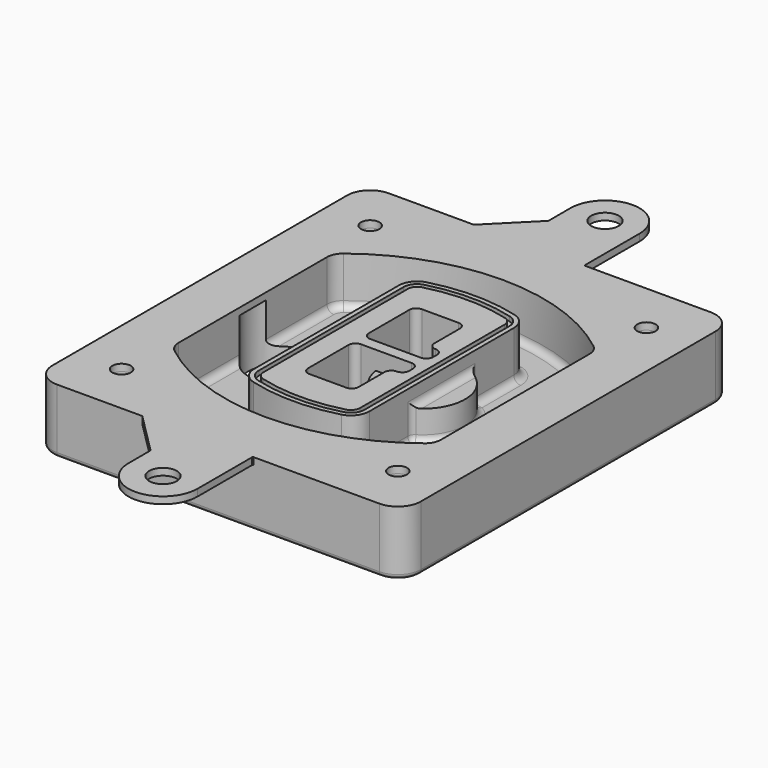
from build123d import *

# Parameters (mm, degrees)
F0_R      = 4
F1_DEPTH  = 25
F2_DEPTH  = 3
F3_DEPTH  = 18
F5_DEPTH  = 21
F6_DEPTH  = 2
F8_DEPTH  = 20
F9_DEPTH  = 16
F10_DEPTH = 25
F7_R      = 6
F7_R_2    = 4
F11_DEPTH = 6
F13_DEPTH = 9
F14_R     = 3
F15_R     = 2
F16_R     = 6
F16_R_2   = 4
F17_DEPTH = 3


with BuildPart() as f1:
    # F0 (on Top) → F1 (new body)
    with BuildSketch(Plane.XY):
        with BuildLine():
            ThreePointArc((-80, -80), (-77.0710678119, -87.0710678119), (-70, -90))
            Line((-70, -90), (70, -90))
            ThreePointArc((70, -90), (77.0710678119, -87.0710678119), (80, -80))
            Line((80, -80), (80, 80))
            ThreePointArc((80, 80), (77.0710678119, 87.0710678119), (70, 90))
            Line((70, 90), (-70, 90))
            ThreePointArc((-70, 90), (-77.0710678119, 87.0710678119), (-80, 80))
            Line((-80, 80), (-80, -80))
        make_face()
        with Locations((-60, -67.5)):
            Circle(F0_R, mode=Mode.SUBTRACT)
        with Locations((60, -67.5)):
            Circle(F0_R, mode=Mode.SUBTRACT)
        with Locations((-60, 67.5)):
            Circle(F0_R, mode=Mode.SUBTRACT)
        with BuildLine():
            ThreePointArc((-64, 40.2934422872), (-62.5820384798, 46.4328484224), (-58.6153846154, 51.3286200352))
            ThreePointArc((-58.6153846154, 51.3286200352), (0, 71.5), (58.6153846154, 51.3286200352))
            ThreePointArc((58.6153846154, 51.3286200352), (62.5820384798, 46.4328484224), (64, 40.2934422872))
            Line((64, 40.2934422872), (64, -40.2934422872))
            ThreePointArc((64, -40.2934422872), (62.5820384798, -46.4328484224), (58.6153846154, -51.3286200352))
            ThreePointArc((58.6153846154, -51.3286200352), (0, -71.5), (-58.6153846154, -51.3286200352))
            ThreePointArc((-58.6153846154, -51.3286200352), (-62.5820384798, -46.4328484224), (-64, -40.2934422872))
            Line((-64, -40.2934422872), (-64, 40.2934422872))
        make_face(mode=Mode.SUBTRACT)
        with Locations((60, 67.5)):
            Circle(F0_R, mode=Mode.SUBTRACT)
        with BuildLine():
            ThreePointArc((58.6153846154, 51.3286200352), (0, 71.5), (-58.6153846154, 51.3286200352))
            ThreePointArc((-58.6153846154, 51.3286200352), (-62.5820384798, 46.4328484224), (-64, 40.2934422872))
            Line((-64, 40.2934422872), (-64, -40.2934422872))
            ThreePointArc((-64, -40.2934422872), (-62.5820384798, -46.4328484224), (-58.6153846154, -51.3286200352))
            ThreePointArc((-58.6153846154, -51.3286200352), (0, -71.5), (58.6153846154, -51.3286200352))
            ThreePointArc((58.6153846154, -51.3286200352), (62.5820384798, -46.4328484224), (64, -40.2934422872))
            Line((64, -40.2934422872), (64, 40.2934422872))
            ThreePointArc((64, 40.2934422872), (62.5820384798, 46.4328484224), (58.6153846154, 51.3286200352))
        make_face()
        with BuildLine():
            Line((-60, -40.2934422872), (-60, 40.2934422872))
            ThreePointArc((-60, 40.2934422872), (-58.9871703427, 44.6787323838), (-56.1538461538, 48.1757121072))
            ThreePointArc((-56.1538461538, 48.1757121072), (0, 67.5), (56.1538461538, 48.1757121072))
            ThreePointArc((56.1538461538, 48.1757121072), (58.9871703427, 44.6787323838), (60, 40.2934422872))
            Line((60, 40.2934422872), (60, -40.2934422872))
            ThreePointArc((60, -40.2934422872), (58.9871703427, -44.6787323838), (56.1538461538, -48.1757121072))
            ThreePointArc((56.1538461538, -48.1757121072), (0, -67.5), (-56.1538461538, -48.1757121072))
            ThreePointArc((-56.1538461538, -48.1757121072), (-58.9871703427, -44.6787323838), (-60, -40.2934422872))
        make_face(mode=Mode.SUBTRACT)
        with BuildLine():
            ThreePointArc((-56.1538461538, 48.1757121072), (-58.9871703427, 44.6787323838), (-60, 40.2934422872))
            Line((-60, 40.2934422872), (-60, -40.2934422872))
            ThreePointArc((-60, -40.2934422872), (-58.9871703427, -44.6787323838), (-56.1538461538, -48.1757121072))
            ThreePointArc((-56.1538461538, -48.1757121072), (0, -67.5), (56.1538461538, -48.1757121072))
            ThreePointArc((56.1538461538, -48.1757121072), (58.9871703427, -44.6787323838), (60, -40.2934422872))
            Line((60, -40.2934422872), (60, 40.2934422872))
            ThreePointArc((60, 40.2934422872), (58.9871703427, 44.6787323838), (56.1538461538, 48.1757121072))
            ThreePointArc((56.1538461538, 48.1757121072), (0, 67.5), (-56.1538461538, 48.1757121072))
        make_face()
        with BuildLine():
            ThreePointArc((54.3076923077, 45.8110311612), (56.2910192399, 43.3631453548), (57, 40.2934422872))
            Line((57, 40.2934422872), (57, -40.2934422872))
            ThreePointArc((57, -40.2934422872), (56.2910192399, -43.3631453548), (54.3076923077, -45.8110311612))
            ThreePointArc((54.3076923077, -45.8110311612), (0, -64.5), (-54.3076923077, -45.8110311612))
            ThreePointArc((-54.3076923077, -45.8110311612), (-56.2910192399, -43.3631453548), (-57, -40.2934422872))
            Line((-57, -40.2934422872), (-57, 40.2934422872))
            ThreePointArc((-57, 40.2934422872), (-56.2910192399, 43.3631453548), (-54.3076923077, 45.8110311612))
            ThreePointArc((-54.3076923077, 45.8110311612), (0, 64.5), (54.3076923077, 45.8110311612))
        make_face(mode=Mode.SUBTRACT)
        with BuildLine():
            Line((57, -40.2934422872), (57, 40.2934422872))
            ThreePointArc((57, 40.2934422872), (56.2910192399, 43.3631453548), (54.3076923077, 45.8110311612))
            ThreePointArc((54.3076923077, 45.8110311612), (0, 64.5), (-54.3076923077, 45.8110311612))
            ThreePointArc((-54.3076923077, 45.8110311612), (-56.2910192399, 43.3631453548), (-57, 40.2934422872))
            Line((-57, 40.2934422872), (-57, -40.2934422872))
            ThreePointArc((-57, -40.2934422872), (-56.2910192399, -43.3631453548), (-54.3076923077, -45.8110311612))
            ThreePointArc((-54.3076923077, -45.8110311612), (0, -64.5), (54.3076923077, -45.8110311612))
            ThreePointArc((54.3076923077, -45.8110311612), (56.2910192399, -43.3631453548), (57, -40.2934422872))
        make_face()
    extrude(amount=-F1_DEPTH)

    # F0 (on Top) → F2 (join)
    with BuildSketch(Plane.XY):
        with BuildLine():
            ThreePointArc((-56.1538461538, 48.1757121072), (-58.9871703427, 44.6787323838), (-60, 40.2934422872))
            Line((-60, 40.2934422872), (-60, -40.2934422872))
            ThreePointArc((-60, -40.2934422872), (-58.9871703427, -44.6787323838), (-56.1538461538, -48.1757121072))
            ThreePointArc((-56.1538461538, -48.1757121072), (0, -67.5), (56.1538461538, -48.1757121072))
            ThreePointArc((56.1538461538, -48.1757121072), (58.9871703427, -44.6787323838), (60, -40.2934422872))
            Line((60, -40.2934422872), (60, 40.2934422872))
            ThreePointArc((60, 40.2934422872), (58.9871703427, 44.6787323838), (56.1538461538, 48.1757121072))
            ThreePointArc((56.1538461538, 48.1757121072), (0, 67.5), (-56.1538461538, 48.1757121072))
        make_face()
        with BuildLine():
            ThreePointArc((54.3076923077, 45.8110311612), (56.2910192399, 43.3631453548), (57, 40.2934422872))
            Line((57, 40.2934422872), (57, -40.2934422872))
            ThreePointArc((57, -40.2934422872), (56.2910192399, -43.3631453548), (54.3076923077, -45.8110311612))
            ThreePointArc((54.3076923077, -45.8110311612), (0, -64.5), (-54.3076923077, -45.8110311612))
            ThreePointArc((-54.3076923077, -45.8110311612), (-56.2910192399, -43.3631453548), (-57, -40.2934422872))
            Line((-57, -40.2934422872), (-57, 40.2934422872))
            ThreePointArc((-57, 40.2934422872), (-56.2910192399, 43.3631453548), (-54.3076923077, 45.8110311612))
            ThreePointArc((-54.3076923077, 45.8110311612), (0, 64.5), (54.3076923077, 45.8110311612))
        make_face(mode=Mode.SUBTRACT)
    extrude(amount=F2_DEPTH)

    # F0 (on Top) → F3 (cut)
    with BuildSketch(Plane.XY):
        with BuildLine():
            Line((57, -40.2934422872), (57, 40.2934422872))
            ThreePointArc((57, 40.2934422872), (56.2910192399, 43.3631453548), (54.3076923077, 45.8110311612))
            ThreePointArc((54.3076923077, 45.8110311612), (0, 64.5), (-54.3076923077, 45.8110311612))
            ThreePointArc((-54.3076923077, 45.8110311612), (-56.2910192399, 43.3631453548), (-57, 40.2934422872))
            Line((-57, 40.2934422872), (-57, -40.2934422872))
            ThreePointArc((-57, -40.2934422872), (-56.2910192399, -43.3631453548), (-54.3076923077, -45.8110311612))
            ThreePointArc((-54.3076923077, -45.8110311612), (0, -64.5), (54.3076923077, -45.8110311612))
            ThreePointArc((54.3076923077, -45.8110311612), (56.2910192399, -43.3631453548), (57, -40.2934422872))
        make_face()
    extrude(amount=-F3_DEPTH, mode=Mode.SUBTRACT)

    # F4 (on face) → F5 (join, through all)
    with BuildSketch(Plane.XY.offset(3)):
        with BuildLine():
            ThreePointArc((-25, -39.2465276821), (-23.3511545998, -44.1109737193), (-19.0842911877, -46.9702398883))
            ThreePointArc((-19.0842911877, -46.9702398883), (0, -49.5), (19.0842911877, -46.9702398883))
            ThreePointArc((19.0842911877, -46.9702398883), (23.3511545998, -44.1109737193), (25, -39.2465276821))
            Line((25, -39.2465276821), (25, 39.2465276821))
            ThreePointArc((25, 39.2465276821), (23.3511545998, 44.1109737193), (19.0842911877, 46.9702398883))
            ThreePointArc((19.0842911877, 46.9702398883), (0, 49.5), (-19.0842911877, 46.9702398883))
            ThreePointArc((-19.0842911877, 46.9702398883), (-23.3511545998, 44.1109737193), (-25, 39.2465276821))
            Line((-25, 39.2465276821), (-25, -39.2465276821))
        make_face()
        with BuildLine():
            ThreePointArc((18.5632183908, 45.0393118368), (21.7633659499, 42.89486221), (23, 39.2465276821))
            Line((23, 39.2465276821), (23, -39.2465276821))
            ThreePointArc((23, -39.2465276821), (21.7633659499, -42.89486221), (18.5632183908, -45.0393118368))
            ThreePointArc((18.5632183908, -45.0393118368), (0, -47.5), (-18.5632183908, -45.0393118368))
            ThreePointArc((-18.5632183908, -45.0393118368), (-21.7633659499, -42.89486221), (-23, -39.2465276821))
            Line((-23, -39.2465276821), (-23, 39.2465276821))
            ThreePointArc((-23, 39.2465276821), (-21.7633659499, 42.89486221), (-18.5632183908, 45.0393118368))
            ThreePointArc((-18.5632183908, 45.0393118368), (0, 47.5), (18.5632183908, 45.0393118368))
        make_face(mode=Mode.SUBTRACT)
        with BuildLine():
            Line((23, -39.2465276821), (23, 39.2465276821))
            ThreePointArc((23, 39.2465276821), (21.7633659499, 42.89486221), (18.5632183908, 45.0393118368))
            ThreePointArc((18.5632183908, 45.0393118368), (0, 47.5), (-18.5632183908, 45.0393118368))
            ThreePointArc((-18.5632183908, 45.0393118368), (-21.7633659499, 42.89486221), (-23, 39.2465276821))
            Line((-23, 39.2465276821), (-23, -39.2465276821))
            ThreePointArc((-23, -39.2465276821), (-21.7633659499, -42.89486221), (-18.5632183908, -45.0393118368))
            ThreePointArc((-18.5632183908, -45.0393118368), (0, -47.5), (18.5632183908, -45.0393118368))
            ThreePointArc((18.5632183908, -45.0393118368), (21.7633659499, -42.89486221), (23, -39.2465276821))
        make_face()
        with BuildLine():
            ThreePointArc((18.0421455939, 43.1083837852), (20.1755772999, 41.6787507007), (21, 39.2465276821))
            Line((21, 39.2465276821), (21, -39.2465276821))
            ThreePointArc((21, -39.2465276821), (20.1755772999, -41.6787507007), (18.0421455939, -43.1083837852))
            ThreePointArc((18.0421455939, -43.1083837852), (0, -45.5), (-18.0421455939, -43.1083837852))
            ThreePointArc((-18.0421455939, -43.1083837852), (-20.1755772999, -41.6787507007), (-21, -39.2465276821))
            Line((-21, -39.2465276821), (-21, 39.2465276821))
            ThreePointArc((-21, 39.2465276821), (-20.1755772999, 41.6787507007), (-18.0421455939, 43.1083837852))
            ThreePointArc((-18.0421455939, 43.1083837852), (0, 45.5), (18.0421455939, 43.1083837852))
        make_face(mode=Mode.SUBTRACT)
        with BuildLine():
            Line((21, -39.2465276821), (21, 39.2465276821))
            ThreePointArc((21, 39.2465276821), (20.1755772999, 41.6787507007), (18.0421455939, 43.1083837852))
            ThreePointArc((18.0421455939, 43.1083837852), (0, 45.5), (-18.0421455939, 43.1083837852))
            ThreePointArc((-18.0421455939, 43.1083837852), (-20.1755772999, 41.6787507007), (-21, 39.2465276821))
            Line((-21, 39.2465276821), (-21, -39.2465276821))
            ThreePointArc((-21, -39.2465276821), (-20.1755772999, -41.6787507007), (-18.0421455939, -43.1083837852))
            ThreePointArc((-18.0421455939, -43.1083837852), (0, -45.5), (18.0421455939, -43.1083837852))
            ThreePointArc((18.0421455939, -43.1083837852), (20.1755772999, -41.6787507007), (21, -39.2465276821))
        make_face()
        with BuildLine():
            Line((-8, -2.5), (14, -2.5))
            ThreePointArc((14, -2.5), (16.1213203436, -3.3786796564), (17, -5.5))
            Line((17, -5.5), (17, -7.5))
            ThreePointArc((17, -7.5), (16.1213203436, -9.6213203436), (14, -10.5))
            ThreePointArc((14, -10.5), (11.8786796564, -11.3786796564), (11, -13.5))
            Line((11, -13.5), (11, -27.5))
            ThreePointArc((11, -27.5), (10.1213203436, -29.6213203436), (8, -30.5))
            Line((8, -30.5), (-8, -30.5))
            ThreePointArc((-8, -30.5), (-10.1213203436, -29.6213203436), (-11, -27.5))
            Line((-11, -27.5), (-11, -5.5))
            ThreePointArc((-11, -5.5), (-10.1213203436, -3.3786796564), (-8, -2.5))
        make_face(mode=Mode.SUBTRACT)
        with BuildLine():
            ThreePointArc((-8, 2.5), (-10.1213203436, 3.3786796564), (-11, 5.5))
            Line((-11, 5.5), (-11, 27.5))
            ThreePointArc((-11, 27.5), (-10.1213203436, 29.6213203436), (-8, 30.5))
            Line((-8, 30.5), (8, 30.5))
            ThreePointArc((8, 30.5), (10.1213203436, 29.6213203436), (11, 27.5))
            Line((11, 27.5), (11, 13.5))
            ThreePointArc((11, 13.5), (11.8786796564, 11.3786796564), (14, 10.5))
            ThreePointArc((14, 10.5), (16.1213203436, 9.6213203436), (17, 7.5))
            Line((17, 7.5), (17, 5.5))
            ThreePointArc((17, 5.5), (16.1213203436, 3.3786796564), (14, 2.5))
            Line((14, 2.5), (-8, 2.5))
        make_face(mode=Mode.SUBTRACT)
    extrude(amount=-F5_DEPTH)

    # F4 (on face) → F6 (cut)
    with BuildSketch(Plane.XY.offset(3)):
        with BuildLine():
            Line((23, -39.2465276821), (23, 39.2465276821))
            ThreePointArc((23, 39.2465276821), (21.7633659499, 42.89486221), (18.5632183908, 45.0393118368))
            ThreePointArc((18.5632183908, 45.0393118368), (0, 47.5), (-18.5632183908, 45.0393118368))
            ThreePointArc((-18.5632183908, 45.0393118368), (-21.7633659499, 42.89486221), (-23, 39.2465276821))
            Line((-23, 39.2465276821), (-23, -39.2465276821))
            ThreePointArc((-23, -39.2465276821), (-21.7633659499, -42.89486221), (-18.5632183908, -45.0393118368))
            ThreePointArc((-18.5632183908, -45.0393118368), (0, -47.5), (18.5632183908, -45.0393118368))
            ThreePointArc((18.5632183908, -45.0393118368), (21.7633659499, -42.89486221), (23, -39.2465276821))
        make_face()
        with BuildLine():
            ThreePointArc((18.0421455939, 43.1083837852), (20.1755772999, 41.6787507007), (21, 39.2465276821))
            Line((21, 39.2465276821), (21, -39.2465276821))
            ThreePointArc((21, -39.2465276821), (20.1755772999, -41.6787507007), (18.0421455939, -43.1083837852))
            ThreePointArc((18.0421455939, -43.1083837852), (0, -45.5), (-18.0421455939, -43.1083837852))
            ThreePointArc((-18.0421455939, -43.1083837852), (-20.1755772999, -41.6787507007), (-21, -39.2465276821))
            Line((-21, -39.2465276821), (-21, 39.2465276821))
            ThreePointArc((-21, 39.2465276821), (-20.1755772999, 41.6787507007), (-18.0421455939, 43.1083837852))
            ThreePointArc((-18.0421455939, 43.1083837852), (0, 45.5), (18.0421455939, 43.1083837852))
        make_face(mode=Mode.SUBTRACT)
    extrude(amount=-F6_DEPTH, mode=Mode.SUBTRACT)

    # F7 (on face) → F8 (join)
    with BuildSketch(Plane(origin=(0, 0, -25), x_dir=(1, 0, 0), z_dir=(0, 0, -1))):
        with BuildLine():
            ThreePointArc((3.28842436, 0), (16.7567035675, 13.4682792075), (30.224982775, 0))
            Line((30.224982775, 0), (35.224982775, 0))
            ThreePointArc((35.224982775, 0), (16.7567035675, 18.4682792075), (-1.71157564, 0))
            Line((-1.71157564, 0), (3.28842436, 0))
        make_face()
        with BuildLine():
            Line((3.28842436, 0), (30.224982775, 0))
            ThreePointArc((30.224982775, 0), (16.7567035675, 13.4682792075), (3.28842436, 0))
        make_face()
        with BuildLine():
            ThreePointArc((3.28842436, 0), (16.7567035675, -13.4682792075), (30.224982775, 0))
            Line((30.224982775, 0), (3.28842436, 0))
        make_face()
        with BuildLine():
            Line((35.224982775, 0), (30.224982775, 0))
            ThreePointArc((30.224982775, 0), (16.7567035675, -13.4682792075), (3.28842436, 0))
            Line((3.28842436, 0), (-1.71157564, 0))
            ThreePointArc((-1.71157564, 0), (16.7567035675, -18.4682792075), (35.224982775, 0))
        make_face()
    extrude(amount=-F8_DEPTH)

    # F7 (on face) → F9 (cut)
    with BuildSketch(Plane(origin=(0, 0, -25), x_dir=(1, 0, 0), z_dir=(0, 0, -1))):
        with BuildLine():
            Line((3.28842436, 0), (30.224982775, 0))
            ThreePointArc((30.224982775, 0), (16.7567035675, 13.4682792075), (3.28842436, 0))
        make_face()
        with BuildLine():
            ThreePointArc((3.28842436, 0), (16.7567035675, -13.4682792075), (30.224982775, 0))
            Line((30.224982775, 0), (3.28842436, 0))
        make_face()
    extrude(amount=-F9_DEPTH, mode=Mode.SUBTRACT)

    # F7 (on face) → F10 (cut)
    with BuildSketch(Plane(origin=(0, 0, -25), x_dir=(1, 0, 0), z_dir=(0, 0, -1))):
        with BuildLine():
            Line((-59.0318229325, 0), (-32.0952645175, 0))
            ThreePointArc((-32.0952645175, 0), (-45.563543725, 13.4682792075), (-59.0318229325, 0))
        make_face()
        with BuildLine():
            ThreePointArc((-59.0318229325, 0), (-45.563543725, -13.4682792075), (-32.0952645175, 0))
            Line((-32.0952645175, 0), (-59.0318229325, 0))
        make_face()
    extrude(amount=-F10_DEPTH, mode=Mode.SUBTRACT)

    # F7 (on face) → F11 (cut)
    with BuildSketch(Plane(origin=(0, 0, -25), x_dir=(1, 0, 0), z_dir=(0, 0, -1))):
        with Locations((60, -67.5)):
            Circle(F7_R)
        with Locations((60, -67.5)):
            Circle(F7_R_2, mode=Mode.SUBTRACT)
        with Locations((60, -67.5)):
            Circle(F7_R)
        with Locations((60, -67.5)):
            Circle(F7_R_2, mode=Mode.SUBTRACT)
        with Locations((-60, -67.5)):
            Circle(F7_R)
        with Locations((-60, -67.5)):
            Circle(F7_R_2, mode=Mode.SUBTRACT)
        with Locations((-60, -67.5)):
            Circle(F7_R)
        with Locations((-60, -67.5)):
            Circle(F7_R_2, mode=Mode.SUBTRACT)
        with Locations((-60, 67.5)):
            Circle(F7_R)
        with Locations((-60, 67.5)):
            Circle(F7_R_2, mode=Mode.SUBTRACT)
        with Locations((-60, 67.5)):
            Circle(F7_R)
        with Locations((-60, 67.5)):
            Circle(F7_R_2, mode=Mode.SUBTRACT)
        with Locations((60, 67.5)):
            Circle(F7_R)
        with Locations((60, 67.5)):
            Circle(F7_R_2, mode=Mode.SUBTRACT)
        with Locations((60, 67.5)):
            Circle(F7_R)
        with Locations((60, 67.5)):
            Circle(F7_R_2, mode=Mode.SUBTRACT)
    extrude(amount=-F11_DEPTH, mode=Mode.SUBTRACT)

    # F12 (on face) → F13 (cut, through all)
    with BuildSketch(Plane(origin=(0, 0, -9), x_dir=(1, 0, 0), z_dir=(0, 0, -1))):
        with BuildLine():
            Line((11, 13.5), (11, 17.5481537753))
            ThreePointArc((11, 17.5481537753), (2.5696536419, 11.8239143813), (-1.5415842455, 2.5))
            Line((-1.5415842455, 2.5), (3.5224848595, 2.5))
            ThreePointArc((3.5224848595, 2.5), (6.1857188154, 8.3455872281), (11.2536447004, 12.2927168648))
            ThreePointArc((11.2536447004, 12.2927168648), (11.0640958889, 12.8831798879), (11, 13.5))
        make_face()
        with BuildLine():
            ThreePointArc((11.2536447004, -12.2927168648), (6.1857188154, -8.3455872281), (3.5224848595, -2.5))
            Line((3.5224848595, -2.5), (-1.5415842455, -2.5))
            ThreePointArc((-1.5415842455, -2.5), (2.5696536419, -11.8239143813), (11, -17.5481537753))
            Line((11, -17.5481537753), (11, -13.5))
            ThreePointArc((11, -13.5), (11.0640958889, -12.8831798879), (11.2536447004, -12.2927168648))
        make_face()
        with BuildLine():
            ThreePointArc((11.2536447004, 12.2927168648), (6.1857188154, 8.3455872281), (3.5224848595, 2.5))
            Line((3.5224848595, 2.5), (14, 2.5))
            ThreePointArc((14, 2.5), (16.1213203436, 3.3786796564), (17, 5.5))
            Line((17, 5.5), (17, 7.5))
            ThreePointArc((17, 7.5), (16.1213203436, 9.6213203436), (14, 10.5))
            ThreePointArc((14, 10.5), (12.3601599782, 10.9878446101), (11.2536447004, 12.2927168648))
        make_face()
        with BuildLine():
            Line((14, -2.5), (3.5224848595, -2.5))
            ThreePointArc((3.5224848595, -2.5), (6.1857188154, -8.3455872281), (11.2536447004, -12.2927168648))
            ThreePointArc((11.2536447004, -12.2927168648), (12.3601599782, -10.9878446101), (14, -10.5))
            ThreePointArc((14, -10.5), (16.1213203436, -9.6213203436), (17, -7.5))
            Line((17, -7.5), (17, -5.5))
            ThreePointArc((17, -5.5), (16.1213203436, -3.3786796564), (14, -2.5))
        make_face()
    extrude(amount=F13_DEPTH, mode=Mode.SUBTRACT)

    # F14
    f14_edges = [f1.edges().sort_by_distance(p)[0] for p in [
        (-57, -23.703476, -18),
        (-57, 23.703476, -18),
        (25, 0, -5),
        (25, 16.526506, -11.5),
        (25, -16.526506, -11.5),
        (25, -27.886517, -18),
        (35.224983, 0, -18),
    ]]
    fillet(f14_edges, radius=F14_R)

    # F15
    f15_edges = [f1.edges().sort_by_distance(p)[0] for p in [
        (0, -90, -25),
    ]]
    fillet(f15_edges, radius=F15_R)

    # F16 (on face) → F17 (join, through all)
    with BuildSketch(Plane.XY):
        with BuildLine():
            Line((15, -90.2969875665), (15.2969875665, -90))
            Line((15.2969875665, -90), (-33, -90))
            Line((-33, -90), (-15, -108))
            Line((-15, -108), (-15, -120))
            ThreePointArc((-15, -120), (0, -135), (15, -120))
            Line((15, -120), (15, -90.2969875665))
        make_face()
        with Locations((0, -120)):
            Circle(F16_R, mode=Mode.SUBTRACT)
        with BuildLine():
            Line((70, 90), (15.2969875665, 90))
            Line((15.2969875665, 90), (-33, 90))
            Line((-33, 90), (-70, 90))
            ThreePointArc((-70, 90), (-77.0710678119, 87.0710678119), (-80, 80))
            Line((-80, 80), (-80, -80))
            ThreePointArc((-80, -80), (-77.0710678119, -87.0710678119), (-70, -90))
            Line((-70, -90), (-33, -90))
            Line((-33, -90), (15.2969875665, -90))
            Line((15.2969875665, -90), (70, -90))
            ThreePointArc((70, -90), (77.0710678119, -87.0710678119), (80, -80))
            Line((80, -80), (80, 80))
            ThreePointArc((80, 80), (77.0710678119, 87.0710678119), (70, 90))
        make_face()
        with Locations((-60, -67.5)):
            Circle(F16_R_2, mode=Mode.SUBTRACT)
        with Locations((60, -67.5)):
            Circle(F16_R_2, mode=Mode.SUBTRACT)
        with Locations((-60, 67.5)):
            Circle(F16_R_2, mode=Mode.SUBTRACT)
        with BuildLine():
            ThreePointArc((-60, 40.2934422872), (-58.9871703427, 44.6787323838), (-56.1538461538, 48.1757121072))
            ThreePointArc((-56.1538461538, 48.1757121072), (0, 67.5), (56.1538461538, 48.1757121072))
            ThreePointArc((56.1538461538, 48.1757121072), (58.9871703427, 44.6787323838), (60, 40.2934422872))
            Line((60, 40.2934422872), (60, -40.2934422872))
            ThreePointArc((60, -40.2934422872), (58.9871703427, -44.6787323838), (56.1538461538, -48.1757121072))
            ThreePointArc((56.1538461538, -48.1757121072), (0, -67.5), (-56.1538461538, -48.1757121072))
            ThreePointArc((-56.1538461538, -48.1757121072), (-58.9871703427, -44.6787323838), (-60, -40.2934422872))
            Line((-60, -40.2934422872), (-60, 40.2934422872))
        make_face(mode=Mode.SUBTRACT)
        with Locations((60, 67.5)):
            Circle(F16_R_2, mode=Mode.SUBTRACT)
        with BuildLine():
            Line((-33, 90), (15.2969875665, 90))
            Line((15.2969875665, 90), (15, 90.2969875665))
            Line((15, 90.2969875665), (15, 120))
            ThreePointArc((15, 120), (0, 135), (-15, 120))
            Line((-15, 120), (-15, 108))
            Line((-15, 108), (-33, 90))
        make_face()
        with Locations((0, 120)):
            Circle(F16_R, mode=Mode.SUBTRACT)
    extrude(amount=F17_DEPTH)


solid = f1.part
